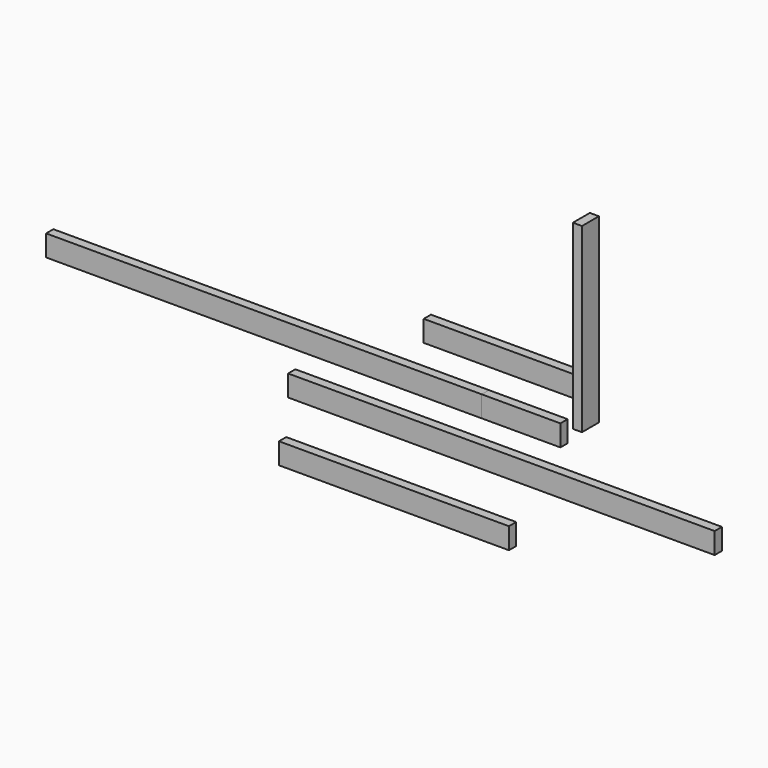
from build123d import *

# Parameters (mm, degrees)
F0_W      = 1828.8
F0_H      = 38.1
F1_DEPTH  = 88.9
F2_W      = 330.2
F2_H      = 38.1
F3_DEPTH  = 88.9
F4_W      = 1790.7
F4_H      = 38.1
F5_DEPTH  = 88.9
F6_W      = 965.2
F6_H      = 38.1
F7_DEPTH  = 88.9
F8_W      = 685.8
F8_H      = 38.1
F9_DEPTH  = 88.9
F10_W     = 38.1
F10_H     = 762
F11_DEPTH = 88.9


with BuildPart() as f1:
    # F0 (on Top) → F1 (new body)
    with BuildSketch(Plane.XY):
        with Locations((-914.4, -19.05)):
            Rectangle(F0_W, F0_H)
    extrude(amount=F1_DEPTH)


with BuildPart() as f3:
    # F2 (on Top) → F3 (new body)
    with BuildSketch(Plane.XY):
        with Locations((165.1, -19.05)):
            Rectangle(F2_W, F2_H)
    extrude(amount=F3_DEPTH)


with BuildPart() as f5:
    # F4 (on Top) → F5 (new body)
    with BuildSketch(Plane.XY):
        with Locations((307.136497, -299.989464)):
            Rectangle(F4_W, F4_H)
    extrude(amount=F5_DEPTH)


with BuildPart() as f7:
    # F6 (on Top) → F7 (new body)
    with BuildSketch(Plane.XY):
        with Locations((171.799448, -694.454732)):
            Rectangle(F6_W, F6_H)
    extrude(amount=F7_DEPTH)


with BuildPart() as f9:
    # F8 (on Top) → F9 (new body)
    with BuildSketch(Plane.XY):
        with Locations((-140.519447, 280.631093)):
            Rectangle(F8_W, F8_H)
    extrude(amount=F9_DEPTH)


with BuildPart() as f11:
    # F10 (on Front) → F11 (new body)
    with BuildSketch(Plane.XZ):
        with Locations((442.280414, 500.473763)):
            Rectangle(F10_W, F10_H)
    extrude(amount=F11_DEPTH)


solid = Compound([f1.part, f3.part, f5.part, f7.part, f9.part, f11.part])
